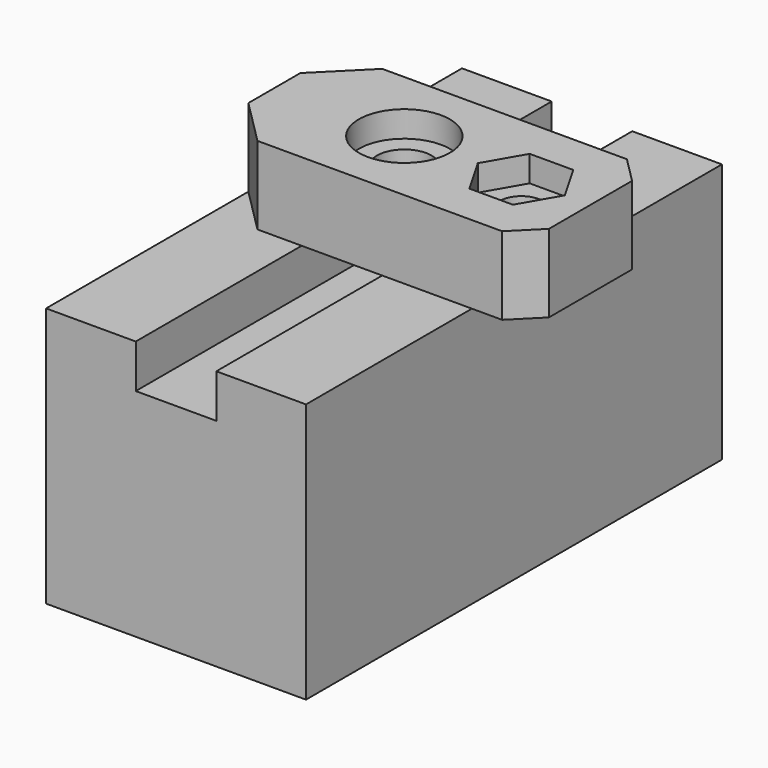
from build123d import *

# Parameters (mm, degrees)
F1_DEPTH = 40
F2_W     = 6.9
F2_H     = 12
F2_R     = 2.1
F3_DEPTH = 6
F4_SIZE  = 3.5
F5_SIZE  = 2
F6_DEPTH = 2
F7_R     = 1.65
F7_R_2   = 3.5
F7_R_3   = 2.1
F8_DEPTH = 2


with BuildPart() as f1:
    # F0 (on Front) → F1 (new body)
    with BuildSketch(Plane.XZ):
        Polygon((0, 20), (0, 0), (20, 0), (20, 20), (13.1, 20), (13.1, 16.6428070515), (6.9, 16.6428070515), (6.9, 20), align=None)
    extrude(amount=-F1_DEPTH)


with BuildPart() as f3:
    # F2 (on face) → F3 (new body)
    with BuildSketch(Plane.XY.offset(20)):
        with Locations((3.45, 21.9539443774)):
            Rectangle(F2_W, F2_H)
        with BuildLine():
            Line((20, 27.9539443774), (6.9, 27.9539443774))
            Line((6.9, 27.9539443774), (6.9, 15.9539443774))
            Line((6.9, 15.9539443774), (20, 15.9539443774))
            Line((20, 15.9539443774), (20, 19.3922066859))
            ThreePointArc((20, 19.3922066859), (16.25, 21.9539443774), (20, 24.5156820689))
            Line((20, 24.5156820689), (20, 27.9539443774))
        make_face()
        with Locations((10, 21.9539443774)):
            Circle(F2_R, mode=Mode.SUBTRACT)
        with BuildLine():
            ThreePointArc((21.75, 21.9539443774), (21.2707377656, 23.5051535832), (20, 24.5156820689))
            Line((20, 24.5156820689), (20, 23.2663848523))
            ThreePointArc((20, 23.2663848523), (20.4785973083, 22.6862353032), (20.65, 21.9539443774))
            ThreePointArc((20.65, 21.9539443774), (20.4785973083, 21.2216534516), (20, 20.6415039026))
            Line((20, 20.6415039026), (20, 19.3922066859))
            ThreePointArc((20, 19.3922066859), (21.2707377656, 20.4027351717), (21.75, 21.9539443774))
        make_face()
        with BuildLine():
            Line((20, 23.2663848523), (20, 24.5156820689))
            ThreePointArc((20, 24.5156820689), (16.25, 21.9539443774), (20, 19.3922066859))
            Line((20, 19.3922066859), (20, 20.6415039026))
            ThreePointArc((20, 20.6415039026), (17.35, 21.9539443774), (20, 23.2663848523))
        make_face()
        with BuildLine():
            Line((24.325016886, 27.9539443774), (20, 27.9539443774))
            Line((20, 27.9539443774), (20, 24.5156820689))
            ThreePointArc((20, 24.5156820689), (21.2707377656, 23.5051535832), (21.75, 21.9539443774))
            ThreePointArc((21.75, 21.9539443774), (21.2707377656, 20.4027351717), (20, 19.3922066859))
            Line((20, 19.3922066859), (20, 15.9539443774))
            Line((20, 15.9539443774), (24.325016886, 15.9539443774))
            Line((24.325016886, 15.9539443774), (24.325016886, 27.9539443774))
        make_face()
    extrude(amount=F3_DEPTH)

    # F4
    f4_edges = [f3.edges().sort_by_distance(p)[0] for p in [
        (0, 27.953944, 23),
        (0, 15.953944, 23),
    ]]
    chamfer(f4_edges, length=F4_SIZE)

    # F5
    f5_edges = [f3.edges().sort_by_distance(p)[0] for p in [
        (24.325017, 15.953944, 23),
        (24.325017, 27.953944, 23),
    ]]
    chamfer(f5_edges, length=F5_SIZE)

    # F2 (on face) → F6 (cut)
    with BuildSketch(Plane.XY.offset(20)):
        with BuildLine():
            ThreePointArc((21.75, 21.9539443774), (21.2707377656, 23.5051535832), (20, 24.5156820689))
            Line((20, 24.5156820689), (20, 23.2663848523))
            ThreePointArc((20, 23.2663848523), (20.4785973083, 22.6862353032), (20.65, 21.9539443774))
            ThreePointArc((20.65, 21.9539443774), (20.4785973083, 21.2216534516), (20, 20.6415039026))
            Line((20, 20.6415039026), (20, 19.3922066859))
            ThreePointArc((20, 19.3922066859), (21.2707377656, 20.4027351717), (21.75, 21.9539443774))
        make_face()
        with BuildLine():
            Line((20, 23.2663848523), (20, 24.5156820689))
            ThreePointArc((20, 24.5156820689), (16.25, 21.9539443774), (20, 19.3922066859))
            Line((20, 19.3922066859), (20, 20.6415039026))
            ThreePointArc((20, 20.6415039026), (17.35, 21.9539443774), (20, 23.2663848523))
        make_face()
    extrude(amount=F6_DEPTH, mode=Mode.SUBTRACT)

    # F7 (on face) → F8 (cut)
    with BuildSketch(Plane.XY.offset(26)):
        Polygon((20.6743157806, 24.8539443774), (17.3256842194, 24.8539443774), (15.6513684387, 21.9539443774), (17.3256842194, 19.0539443774), (20.6743157806, 19.0539443774), (22.3486315613, 21.9539443774), align=None)
        with Locations((19, 21.9539443774)):
            Circle(F7_R, mode=Mode.SUBTRACT)
        with Locations((10, 21.9539443774)):
            Circle(F7_R_2)
        with Locations((10, 21.9539443774)):
            Circle(F7_R_3, mode=Mode.SUBTRACT)
    extrude(amount=-F8_DEPTH, mode=Mode.SUBTRACT)


solid = Compound([f1.part, f3.part])
